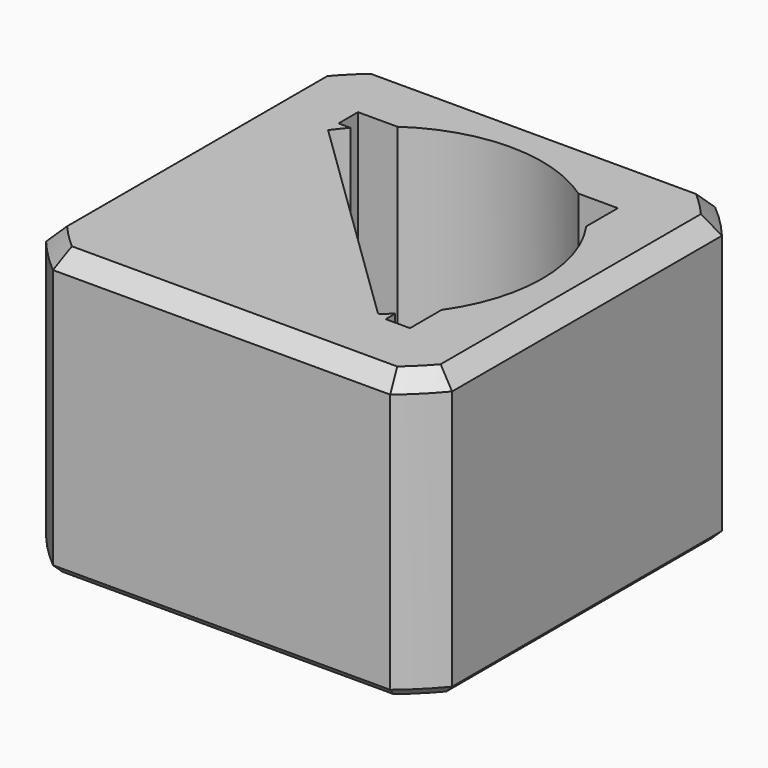
from build123d import *

# Parameters (mm, degrees)
SKETCH_R        = 32.5
PAD_DEPTH       = 35
POCKET_DEPTH    = 22
SKETCH002_R     = 19.5
POCKET001_DEPTH = 22
POCKET002_DEPTH = 35.001
PAD001_DEPTH    = 2
CHAMFER_SIZE    = 2
CHAMFER001_SIZE = 1


with BuildPart() as part:
    # Sketch → Pad (new body)
    with BuildSketch(Plane.XY):
        Circle(SKETCH_R)
    extrude(amount=PAD_DEPTH)

    # Sketch001 (on Face3 of Pad) → Pocket (cut)
    with BuildSketch(Plane.XY.offset(35)):
        Polygon((-16, 16), (16, 16), (16, -16), (13, -16), (13, 13), (-16, 13), align=None)
    extrude(amount=-POCKET_DEPTH, mode=Mode.SUBTRACT)

    # Sketch002 (on Face3 of Pocket) → Pocket001 (cut)
    with BuildSketch(Plane.XY.offset(35)):
        Circle(SKETCH002_R)
    extrude(amount=-POCKET001_DEPTH, mode=Mode.SUBTRACT)

    # Sketch003 (on Face3 of Pocket001) → Pocket002 (cut, through all)
    with BuildSketch(Plane.XY.offset(35)):
        Polygon((25, 25), (25, -25), (67.494446, -25), (72.347168, 49.819519), (-56.328224, 49.819519), (-56.328224, -44.339888), (22.106388, -44.339888), (28.22, -25), (-25, -25), (-25, 25), align=None)
    extrude(amount=-POCKET002_DEPTH, mode=Mode.SUBTRACT)

    # Sketch004 (on Face4 of Pocket002) → Pad001 (join)
    with BuildSketch(Plane.XY.offset(35)):
        with BuildLine():
            ThreePointArc((-17.789269, 13.103439), (-15.397541, -15.845313), (13.607864, -17.406443))
            Line((-17.789269, 13.103439), (13.607864, -17.406443))
        make_face()
    extrude(amount=-PAD001_DEPTH)

    # Chamfer
    chamfer_edges = [part.edges().sort_by_distance(p)[0] for p in [
        (0, -25, 35),
        (22.98097, -22.98097, 35),
        (25, 0, 35),
        (22.98097, 22.98097, 35),
        (0, 25, 35),
        (-22.98097, 22.98097, 35),
        (-25, 0, 35),
        (-22.98097, -22.98097, 35),
    ]]
    chamfer(chamfer_edges, length=CHAMFER_SIZE)

    # Chamfer001
    chamfer001_edges = [part.edges().sort_by_distance(p)[0] for p in [
        (25, 0, 0),
        (22.98097, -22.98097, 0),
        (0, -25, 0),
        (-22.98097, -22.98097, 0),
        (-25, 0, 0),
        (-22.98097, 22.98097, 0),
        (0, 25, 0),
        (22.98097, 22.98097, 0),
    ]]
    chamfer(chamfer001_edges, length=CHAMFER001_SIZE)


solid = part.part
